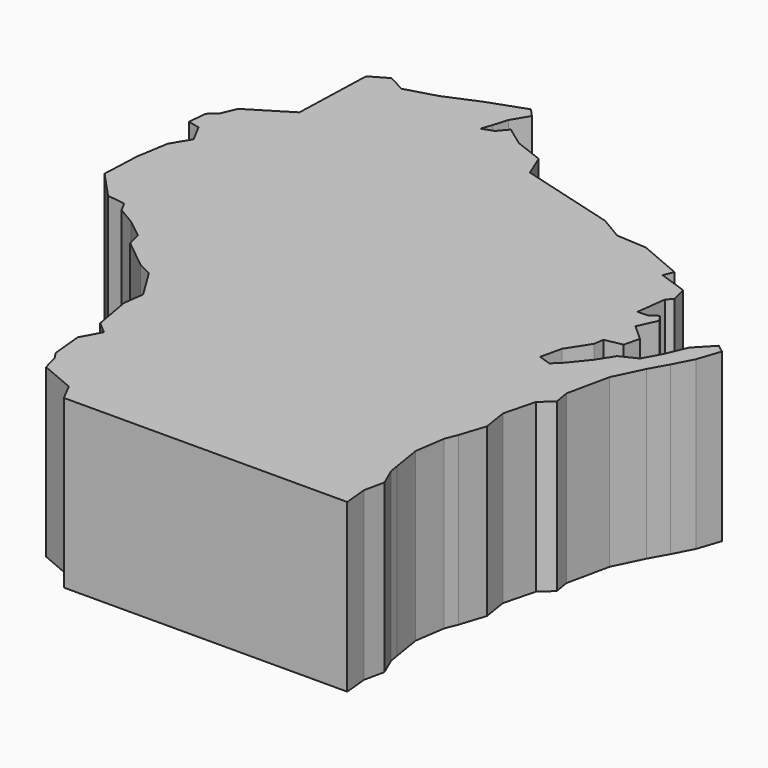
from build123d import *

# Parameters (mm, degrees)
F1_DEPTH = 3.048


with BuildPart() as f1:
    # F0 (on Top) → F1 (new body)
    with BuildSketch(Plane.XY):
        Polygon((-0.146891, 0.337025), (0.017016, 0.018585), (5.177534, 0.032631), (5.135395, 0.470527), (5.214999, 0.835779), (5.068669, 1.168265), (5.041745, 1.335677), (4.955106, 1.873039), (5.037046, 2.420943), (5.122517, 2.635192), (5.273546, 3.101129), (5.202121, 3.553021), (5.348476, 4.122006), (5.569735, 4.323352), (5.522897, 4.600821), (5.690309, 5.379357), (5.94436, 5.90501), (6.121144, 6.222256), (6.306106, 6.578161), (6.445425, 6.994924), (6.300264, 7.10615), (6.008749, 6.800588), (5.835495, 6.39904), (5.669252, 6.096983), (5.368364, 5.950654), (5.177534, 5.652127), (4.877839, 5.285682), (4.752566, 5.17095), (4.525465, 5.248217), (4.612104, 5.634551), (4.873165, 6.03963), (4.902426, 6.223424), (5.220866, 6.285476), (5.288786, 6.568788), (4.99727, 6.834548), (5.155309, 7.178744), (5.069838, 7.305185), (4.930519, 7.204499), (4.740857, 7.1998), (4.808776, 7.739499), (4.903595, 7.841353), (4.830011, 8.128653), (4.314721, 8.306148), (4.387314, 8.486437), (3.590059, 8.824765), (3.043324, 8.857557), (2.623056, 9.10574), (0.858772, 9.597433), (0.690192, 10.009523), (0.171575, 10.207389), (-0.183162, 10.464945), (-0.333022, 10.286992), (-0.539067, 10.215593), (-0.472341, 10.406398), (-0.392712, 10.672158), (-0.208917, 10.978888), (-0.349405, 11.131085), (-1.022581, 10.891081), (-1.626669, 10.634693), (-2.187425, 10.474317), (-2.501191, 10.642897), (-2.819631, 10.459103), (-2.866443, 8.996876), (-3.618055, 8.534443), (-3.725751, 8.272188), (-3.883815, 8.125859), (-3.914244, 7.787505), (-3.701163, 7.738356), (-3.524405, 7.404677), (-3.728113, 7.068685), (-3.822931, 6.489184), (-3.85336, 5.785579), (-3.389759, 5.284513), (-3.057273, 5.237676), (-2.962455, 5.059723), (-2.626464, 4.859546), (-2.291641, 4.596122), (-2.230757, 4.340903), (-1.693497, 3.906665), (-1.445212, 3.787132), (-1.09398, 3.215836), (-1.144323, 2.847053), (-1.020244, 2.144616), (-0.803658, 1.958485), (-0.996825, 1.601412), (-0.941809, 1.028921), (-0.851664, 0.894301), (-0.776734, 0.605122), align=None)
    extrude(amount=F1_DEPTH)


solid = f1.part
